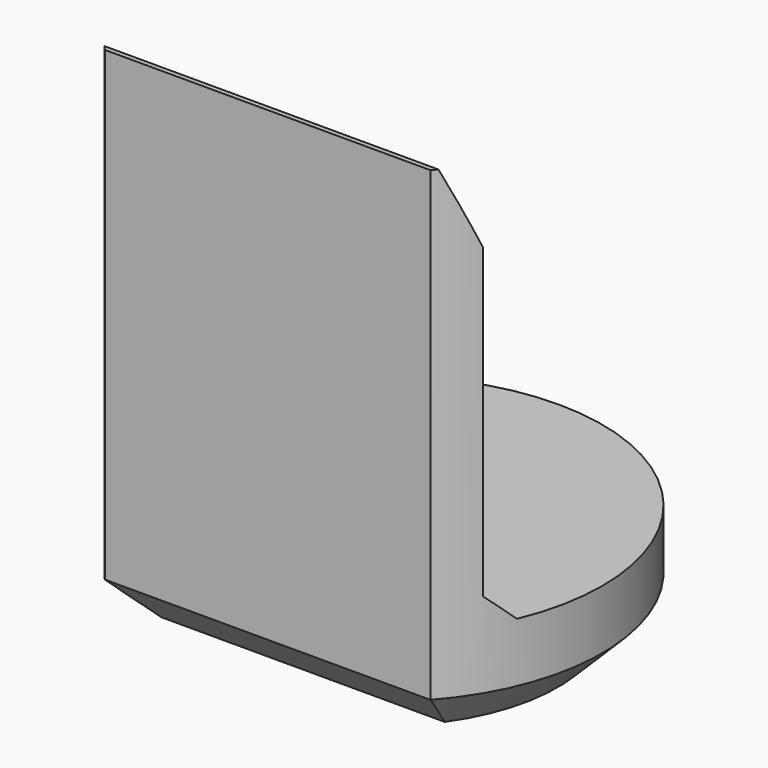
from build123d import *

# Parameters (mm, degrees)
PAD007_DEPTH         = 6.9
POCKET005_DEPTH      = 2.951
POCKET005_DEPTH_BACK = 2.951
CHAMFER008_SIZE      = 0.6


with BuildPart() as part:
    # Sketch018 → Pad007 (new body)
    with BuildSketch(Plane.XY):
        with BuildLine():
            ThreePointArc((2.2, -1.9653244007), (0, 2.95), (-2.2, -1.9653244007))
            Line((-2.2, -1.9653244007), (2.2, -1.9653244007))
        make_face()
    extrude(amount=PAD007_DEPTH)

    # Sketch019 → Pocket005 (cut, two sides)
    with BuildSketch(Plane.YZ) as pocket005_sk:
        Polygon((-1.9, 6.9), (-1.5, 5.9), (-1.5, 1.75), (-1.15, 1.4), (5, 1.4), (5, 6.9), align=None)
    extrude(amount=-POCKET005_DEPTH, mode=Mode.SUBTRACT)
    extrude(pocket005_sk.sketch, amount=POCKET005_DEPTH_BACK, mode=Mode.SUBTRACT)

    # Chamfer008
    chamfer008_edges = [part.edges().sort_by_distance(p)[0] for p in [
        (0, 2.95, 0),
        (0, -1.965324, 0),
    ]]
    chamfer(chamfer008_edges, length=CHAMFER008_SIZE)


with BuildPart() as part_1:
    # Body063 placement: moved
    add(part.part.moved(Location((0, 78, 0))))


with BuildPart() as part_2:
    # Clone058 placement: moved
    add(part_1.part.moved(Location((0, -78, 0))))


with BuildPart() as part_3:
    # Body064 placement: moved
    add(part_2.part.moved(Location((0, 84, 0))))


solid = part_3.part
